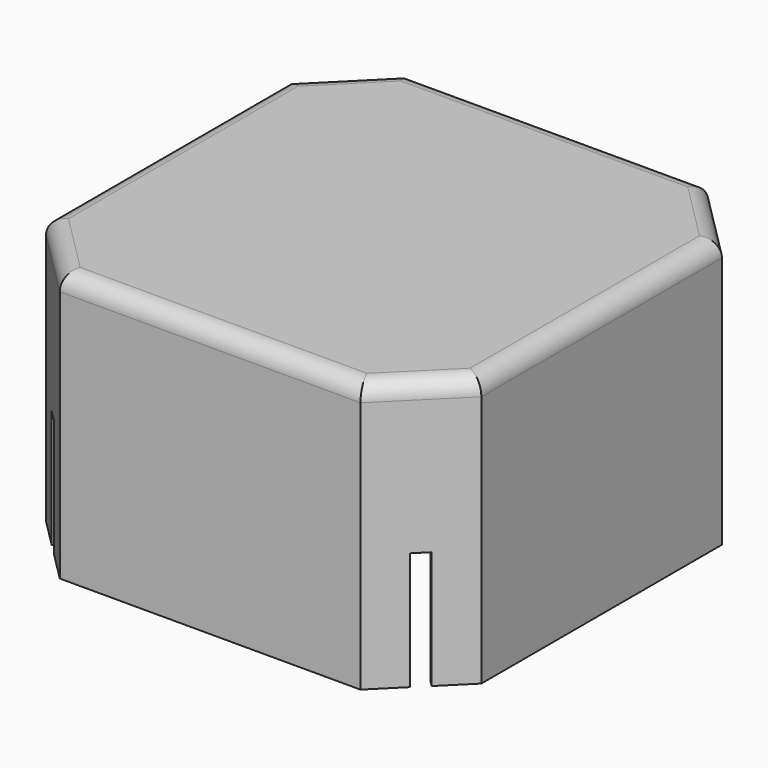
from build123d import *

# Parameters (mm, degrees)
F1_DEPTH  = 10
F2_DEPTH  = 150
F3_W      = 10
F3_H      = 70
F4_DEPTH  = 25
F5_R      = 10
F8_W      = 10
F8_H      = 70
F9_DEPTH  = 25
F7_W      = 10
F7_H      = 70
F10_DEPTH = 25
F6_W      = 10
F6_H      = 70
F11_DEPTH = 25


with BuildPart() as f1:
    # F0 (on Top) → F1 (new body)
    with BuildSketch(Plane.XY):
        Polygon((28.9362690725, 80.0640511845), (-149.8727713071, 80.0640511845), (-189.6601299418, 40.2766925498), (-189.6601299418, -138.3464388432), (-148.9716956383, -179.0348731467), (29.644071613, -179.0348731467), (69.624703376, -139.2548863311), (69.624703376, 39.375616881), align=None)
        Polygon((-184.6601299418, 38.205624738), (-147.8017034952, 75.0640511845), (26.8652012606, 75.0640511845), (64.624703376, 37.3045490692), (64.624703376, -137.1764467001), (27.5803679428, -174.0348731467), (-146.9006278264, -174.0348731467), (-184.6601299418, -136.2753710313), align=None, mode=Mode.SUBTRACT)
        Polygon((26.8652012606, 75.0640511845), (-147.8017034952, 75.0640511845), (-184.6601299418, 38.205624738), (-184.6601299418, -136.2753710313), (-146.9006278264, -174.0348731467), (27.5803679428, -174.0348731467), (64.624703376, -137.1764467001), (64.624703376, 37.3045490692), align=None)
    extrude(amount=F1_DEPTH)

    # F0 (on Top) → F2 (join)
    with BuildSketch(Plane.XY):
        Polygon((28.9362690725, 80.0640511845), (-149.8727713071, 80.0640511845), (-189.6601299418, 40.2766925498), (-189.6601299418, -138.3464388432), (-148.9716956383, -179.0348731467), (29.644071613, -179.0348731467), (69.624703376, -139.2548863311), (69.624703376, 39.375616881), align=None)
        Polygon((-184.6601299418, 38.205624738), (-147.8017034952, 75.0640511845), (26.8652012606, 75.0640511845), (64.624703376, 37.3045490692), (64.624703376, -137.1764467001), (27.5803679428, -174.0348731467), (-146.9006278264, -174.0348731467), (-184.6601299418, -136.2753710313), align=None, mode=Mode.SUBTRACT)
    extrude(amount=-F2_DEPTH)

    # F3 (on face) → F4 (cut)
    with BuildSketch(Plane(origin=(-164.0032843925, -164.0032843925, 0), x_dir=(0.7071067812, -0.7071067812, 0), z_dir=(-0.7071067812, -0.7071067812, 0))):
        with Locations((-7.5131911317, -115)):
            Rectangle(F3_W, F3_H)
    extrude(amount=-F4_DEPTH, mode=Mode.SUBTRACT)

    # F5
    f5_edges = [f1.edges().sort_by_distance(p)[0] for p in [
        (-60.468251, 80.064051, 10),
        (-169.766451, 60.170372, 10),
        (-189.66013, -49.034873, 10),
        (-169.315913, -158.690656, 10),
        (-59.663812, -179.034873, 10),
        (49.634387, -159.14488, 10),
        (69.624703, -49.939635, 10),
        (49.280486, 59.719834, 10),
    ]]
    fillet(f5_edges, radius=F5_R)

    # F8 (on face) → F9 (cut)
    with BuildSketch(Plane(origin=(-114.9684112458, 114.9684112458, 0), x_dir=(-0.7071067812, -0.7071067812, 0), z_dir=(-0.7071067812, 0.7071067812, 0))):
        with Locations((77.4961304807, -115)):
            Rectangle(F8_W, F8_H)
    extrude(amount=-F9_DEPTH, mode=Mode.SUBTRACT)

    # F7 (on face) → F10 (cut)
    with BuildSketch(Plane(origin=(54.5001601285, 54.5001601285, 0), x_dir=(-0.7071067812, 0.7071067812, 0), z_dir=(0.7071067812, 0.7071067812, 0))):
        with Locations((7.3817336266, -115)):
            Rectangle(F7_W, F7_H)
    extrude(amount=-F10_DEPTH, mode=Mode.SUBTRACT)

    # F6 (on face) → F11 (cut)
    with BuildSketch(Plane(origin=(104.2637675873, -104.7896601235, 0), x_dir=(0.7088833284, 0.7053257593, 0), z_dir=(0.7053257593, -0.7088833284, 0))):
        with Locations((-77.0639933351, -115)):
            Rectangle(F6_W, F6_H)
    extrude(amount=-F11_DEPTH, mode=Mode.SUBTRACT)


solid = f1.part
